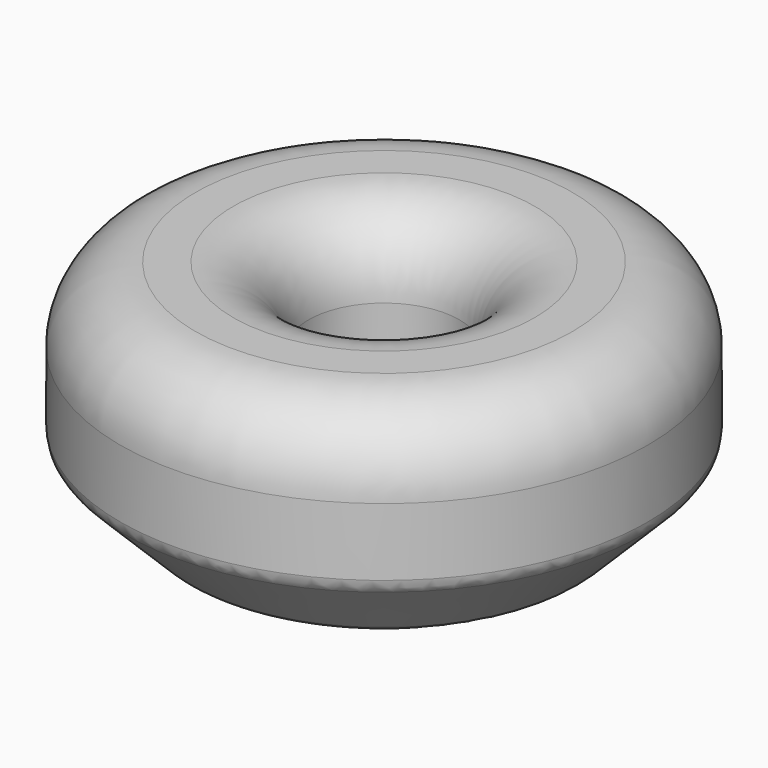
from build123d import *

# Parameters (mm, degrees)
F0_R     = 70
F0_R_2   = 20
F1_DEPTH = 60
F2_R     = 20
F3_SIZE  = 20
F4_R     = 20
F5_R     = 5


with BuildPart() as f1:
    # F0 (on Top) → F1 (new body)
    with BuildSketch(Plane.XY):
        Circle(F0_R)
        Circle(F0_R_2, mode=Mode.SUBTRACT)
    extrude(amount=F1_DEPTH)

    # F2
    f2_edges = [f1.edges().sort_by_distance(p)[0] for p in [
        (-70, 0, 60),
    ]]
    fillet(f2_edges, radius=F2_R)

    # F3
    f3_edges = [f1.edges().sort_by_distance(p)[0] for p in [
        (-70, 0, 0),
        (-20, 0, 0),
    ]]
    chamfer(f3_edges, length=F3_SIZE)

    # F4
    f4_edges = [f1.edges().sort_by_distance(p)[0] for p in [
        (-20, 0, 60),
    ]]
    fillet(f4_edges, radius=F4_R)

    # F5
    f5_edges = [f1.edges().sort_by_distance(p)[0] for p in [
        (-70, 0, 20),
        (-50, 0, 0),
        (-40, 0, 0),
        (-20, 0, 20),
    ]]
    fillet(f5_edges, radius=F5_R)


solid = f1.part
